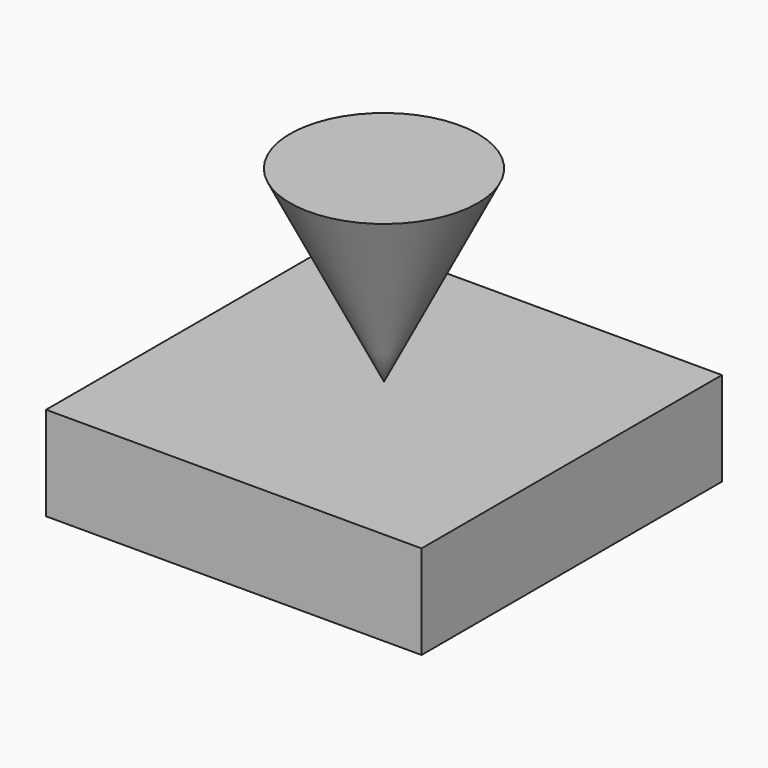
from build123d import *

# Parameters (mm, degrees)
F0_W     = 50.8
F0_H     = 12.7
F1_DEPTH = 25.4


with BuildPart() as f1:
    # F0 (on Front) → F1 (new body, symmetric)
    with BuildSketch(Plane.XZ):
        Rectangle(F0_W, F0_H)
    extrude(amount=F1_DEPTH, both=True)


with BuildPart() as f3:
    # F2 (on Front) → F3 (revolve)
    with BuildSketch(Plane.XZ):
        Polygon((0, 33.02), (0, 7.62), (12.7, 33.02), align=None)
    revolve(axis=Axis((0, 0, 20.32), (0, 0, -1)))


solid = Compound([f1.part, f3.part])
